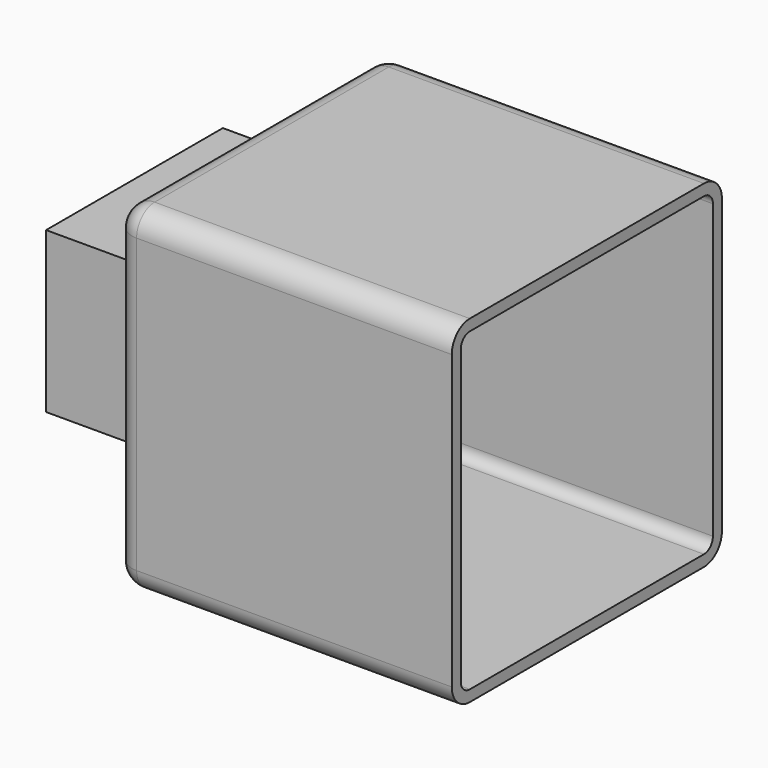
from build123d import *

# Parameters (mm, degrees)
F0_W     = 76.2
F0_H     = 76.2
F1_DEPTH = 76.2
F2_R     = 5.08
F3_T     = -2.54
F4_W     = 49.854696
F4_H     = 36.147542
F5_DEPTH = 25.4


with BuildPart() as f1:
    # F0 (on Top) → F1 (new body)
    with BuildSketch(Plane.XY):
        Rectangle(F0_W, F0_H)
    extrude(amount=-F1_DEPTH)

    # F2
    f2_edges = [f1.edges().sort_by_distance(p)[0] for p in [
        (0, -38.1, 0),
        (0, 38.1, 0),
        (0, -38.1, -76.2),
        (0, 38.1, -76.2),
        (-38.1, 0, -76.2),
        (-38.1, 38.1, -38.1),
        (-38.1, 0, 0),
        (-38.1, -38.1, -38.1),
    ]]
    fillet(f2_edges, radius=F2_R)

    # F3
    f3_openings = [f1.faces().sort_by_distance(p)[0] for p in [
        (38.1, 0, -38.1),
    ]]
    offset(amount=F3_T, openings=f3_openings)

    # F4 (on face) → F5 (join)
    with BuildSketch(Plane(origin=(-38.1, 0, 0), x_dir=(0, -1, 0), z_dir=(-1, 0, 0))):
        with Locations((0.608757, -36.575835)):
            Rectangle(F4_W, F4_H)
    extrude(amount=F5_DEPTH)


solid = f1.part
